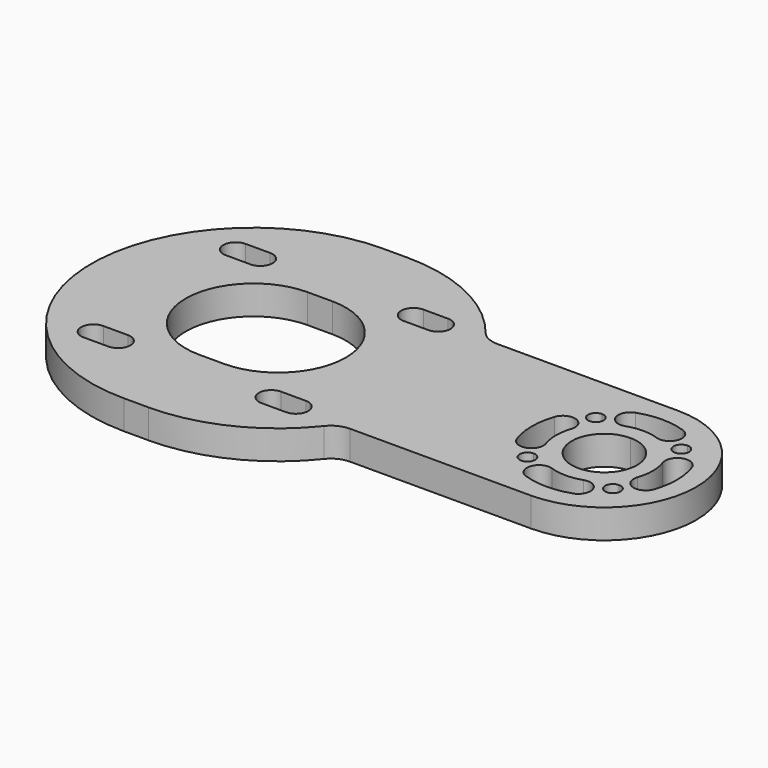
from build123d import *

# Parameters (mm, degrees)
F1_DEPTH = 6
F3_DEPTH = 25


with BuildPart() as f1:
    # F0 (on Top) → F1 (new body)
    with BuildSketch(Plane.XY):
        with BuildLine():
            Line((32.653986447, -19), (70, -19))
            ThreePointArc((70, -19), (89, 0), (70, 19))
            Line((70, 19), (32.653986447, 19))
            ThreePointArc((32.653986447, 19), (30.4842417137, 19.4953126865), (28.7443778175, 20.8831168831))
            ThreePointArc((28.7443778175, 20.8831168831), (17.0872897133, 30.1814050003), (2.55, 33.5))
            Line((2.55, 33.5), (-2.55, 33.5))
            ThreePointArc((-2.55, 33.5), (-36.05, 0), (-2.55, -33.5))
            Line((-2.55, -33.5), (2.55, -33.5))
            ThreePointArc((2.55, -33.5), (17.0872897133, -30.1814050003), (28.7443778175, -20.8831168831))
            ThreePointArc((28.7443778175, -20.8831168831), (30.4842417137, -19.4953126865), (32.653986447, -19))
        make_face()
        with BuildLine():
            Line((-15.8347763109, -20.9347763109), (-20.9347763109, -20.9347763109))
            ThreePointArc((-20.9347763109, -20.9347763109), (-23.4847763109, -18.3847763109), (-20.9347763109, -15.8347763109))
            Line((-20.9347763109, -15.8347763109), (-15.8347763109, -15.8347763109))
            ThreePointArc((-15.8347763109, -15.8347763109), (-13.2847763109, -18.3847763109), (-15.8347763109, -20.9347763109))
        make_face(mode=Mode.SUBTRACT)
        with BuildLine():
            Line((20.9347763109, -20.9347763109), (15.8347763109, -20.9347763109))
            ThreePointArc((15.8347763109, -20.9347763109), (13.2847763109, -18.3847763109), (15.8347763109, -15.8347763109))
            Line((15.8347763109, -15.8347763109), (20.9347763109, -15.8347763109))
            ThreePointArc((20.9347763109, -15.8347763109), (23.4847763109, -18.3847763109), (20.9347763109, -20.9347763109))
        make_face(mode=Mode.SUBTRACT)
        with BuildLine():
            ThreePointArc((61.1611652352, -7.2388347648), (62.2925360851, -7.7074639149), (62.7611652352, -8.8388347648))
            ThreePointArc((62.7611652352, -8.8388347648), (62.2925360851, -9.9702056147), (61.1611652352, -10.4388347648))
            ThreePointArc((61.1611652352, -10.4388347648), (59.5611652352, -8.8388347648), (61.1611652352, -7.2388347648))
        make_face(mode=Mode.SUBTRACT)
        with BuildLine():
            ThreePointArc((78.8388347648, -7.2388347648), (79.9702056147, -7.7074639149), (80.4388347648, -8.8388347648))
            ThreePointArc((80.4388347648, -8.8388347648), (79.9702056147, -9.9702056147), (78.8388347648, -10.4388347648))
            ThreePointArc((78.8388347648, -10.4388347648), (77.2388347648, -8.8388347648), (78.8388347648, -7.2388347648))
        make_face(mode=Mode.SUBTRACT)
        with BuildLine():
            Line((-2.55, 14), (2.55, 14))
            ThreePointArc((2.55, 14), (16.55, 0), (2.55, -14))
            Line((2.55, -14), (-2.55, -14))
            ThreePointArc((-2.55, -14), (-16.55, 0), (-2.55, 14))
        make_face(mode=Mode.SUBTRACT)
        with BuildLine():
            Line((-15.8347763109, 15.8347763109), (-20.9347763109, 15.8347763109))
            ThreePointArc((-20.9347763109, 15.8347763109), (-23.4847763109, 18.3847763109), (-20.9347763109, 20.9347763109))
            Line((-20.9347763109, 20.9347763109), (-15.8347763109, 20.9347763109))
            ThreePointArc((-15.8347763109, 20.9347763109), (-13.2847763109, 18.3847763109), (-15.8347763109, 15.8347763109))
        make_face(mode=Mode.SUBTRACT)
        with BuildLine():
            Line((20.9347763109, 15.8347763109), (15.8347763109, 15.8347763109))
            ThreePointArc((15.8347763109, 15.8347763109), (13.2847763109, 18.3847763109), (15.8347763109, 20.9347763109))
            Line((15.8347763109, 20.9347763109), (20.9347763109, 20.9347763109))
            ThreePointArc((20.9347763109, 20.9347763109), (23.4847763109, 18.3847763109), (20.9347763109, 15.8347763109))
        make_face(mode=Mode.SUBTRACT)
        with BuildLine():
            ThreePointArc((70, 6.75), (74.772970773, 4.772970773), (76.75, 0))
            ThreePointArc((76.75, 0), (74.772970773, -4.772970773), (70, -6.75))
            ThreePointArc((70, -6.75), (63.25, 0), (70, 6.75))
        make_face(mode=Mode.SUBTRACT)
        with BuildLine():
            ThreePointArc((61.1611652352, 10.4388347648), (62.2925360851, 9.9702056147), (62.7611652352, 8.8388347648))
            ThreePointArc((62.7611652352, 8.8388347648), (62.2925360851, 7.7074639149), (61.1611652352, 7.2388347648))
            ThreePointArc((61.1611652352, 7.2388347648), (59.5611652352, 8.8388347648), (61.1611652352, 10.4388347648))
        make_face(mode=Mode.SUBTRACT)
        with BuildLine():
            ThreePointArc((78.8388347648, 10.4388347648), (79.9702056147, 9.9702056147), (80.4388347648, 8.8388347648))
            ThreePointArc((80.4388347648, 8.8388347648), (79.9702056147, 7.7074639149), (78.8388347648, 7.2388347648))
            ThreePointArc((78.8388347648, 7.2388347648), (77.2388347648, 8.8388347648), (78.8388347648, 10.4388347648))
        make_face(mode=Mode.SUBTRACT)
    extrude(amount=F1_DEPTH)

    # F2 (on face) → F3 (cut)
    with BuildSketch(Plane.XY.offset(6)):
        with BuildLine():
            ThreePointArc((60.544814244, 3.2556815446), (58.9949381912, 6.4333983697), (55.817221366, 4.8835223169))
            ThreePointArc((55.817221366, 4.8835223169), (55, 0), (55.817221366, -4.8835223169))
            ThreePointArc((55.817221366, -4.8835223169), (58.9949381912, -6.4333983697), (60.544814244, -3.2556815446))
            ThreePointArc((60.544814244, -3.2556815446), (60, 0), (60.544814244, 3.2556815446))
        make_face()
        with BuildLine():
            ThreePointArc((66.7443184554, -9.455185756), (63.5666016303, -11.0050618088), (65.1164776831, -14.182778634))
            ThreePointArc((65.1164776831, -14.182778634), (70, -15), (74.8835223169, -14.182778634))
            ThreePointArc((74.8835223169, -14.182778634), (76.4333983697, -11.0050618088), (73.2556815446, -9.455185756))
            ThreePointArc((73.2556815446, -9.455185756), (70, -10), (66.7443184554, -9.455185756))
        make_face()
        with BuildLine():
            ThreePointArc((79.455185756, -3.2556815446), (81.0050618088, -6.4333983697), (84.182778634, -4.8835223169))
            ThreePointArc((84.182778634, -4.8835223169), (85, 0), (84.182778634, 4.8835223169))
            ThreePointArc((84.182778634, 4.8835223169), (81.0050618088, 6.4333983697), (79.455185756, 3.2556815446))
            ThreePointArc((79.455185756, 3.2556815446), (80, 0), (79.455185756, -3.2556815446))
        make_face()
        with BuildLine():
            ThreePointArc((73.2556815446, 9.455185756), (76.4333983697, 11.0050618088), (74.8835223169, 14.182778634))
            ThreePointArc((74.8835223169, 14.182778634), (70, 15), (65.1164776831, 14.182778634))
            ThreePointArc((65.1164776831, 14.182778634), (63.5666016303, 11.0050618088), (66.7443184554, 9.455185756))
            ThreePointArc((66.7443184554, 9.455185756), (70, 10), (73.2556815446, 9.455185756))
        make_face()
    extrude(amount=-F3_DEPTH, mode=Mode.SUBTRACT)


solid = f1.part
